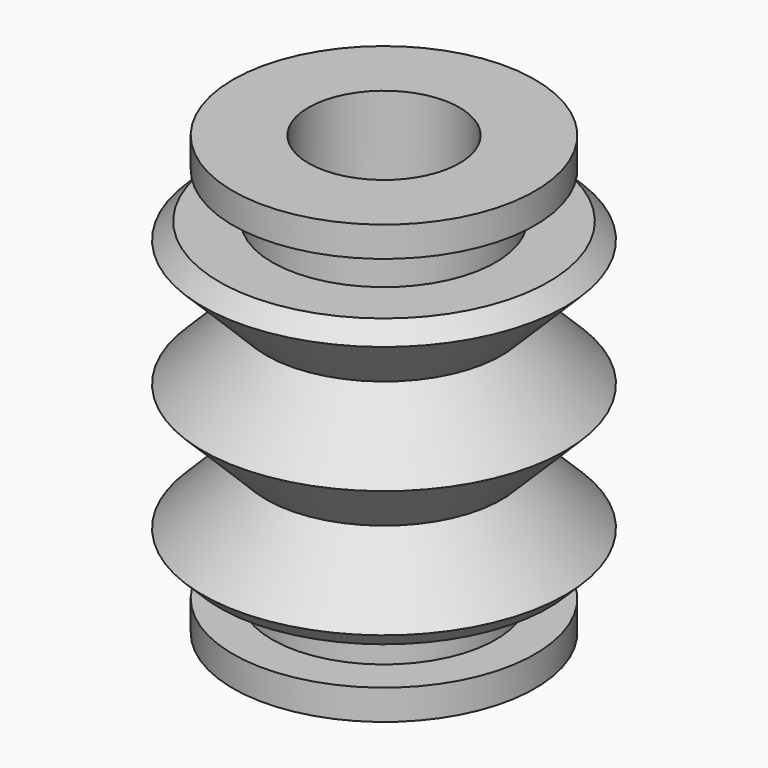
from build123d import *


with BuildPart() as f1:
    # F0 (on Front) → F1 (revolve)
    with BuildSketch(Plane.XZ):
        Polygon((-2.5, 3.75), (-2.5, 7.25), (-5, 7.25), (-5, 6.25), (-3.7, 6.25), (-3.7, 4.75), (-5.452799, 4.75), (-6, 4.202799), (-3.8986, 2.1014), (-6, 0), (-3.8986, -2.1014), (-6, -4.202799), (-5.452799, -4.75), (-3.7, -4.75), (-3.7, -6.25), (-5, -6.25), (-5, -7.25), (-2.5, -7.25), (-2.5, -3.75), (-4.981515, -3.75), (-3.332915, -2.1014), (-5.434315, 0), (-3.332915, 2.1014), (-3.740758, 2.509242), align=None)
        Polygon((-4.981515, 3.75), (-3.065685, 3.75), (-4.0236, 2.792085), align=None, mode=Mode.SUBTRACT)
    revolve(axis=Axis((0, 0, -0.799421), (0, 0, -1)))


solid = f1.part
